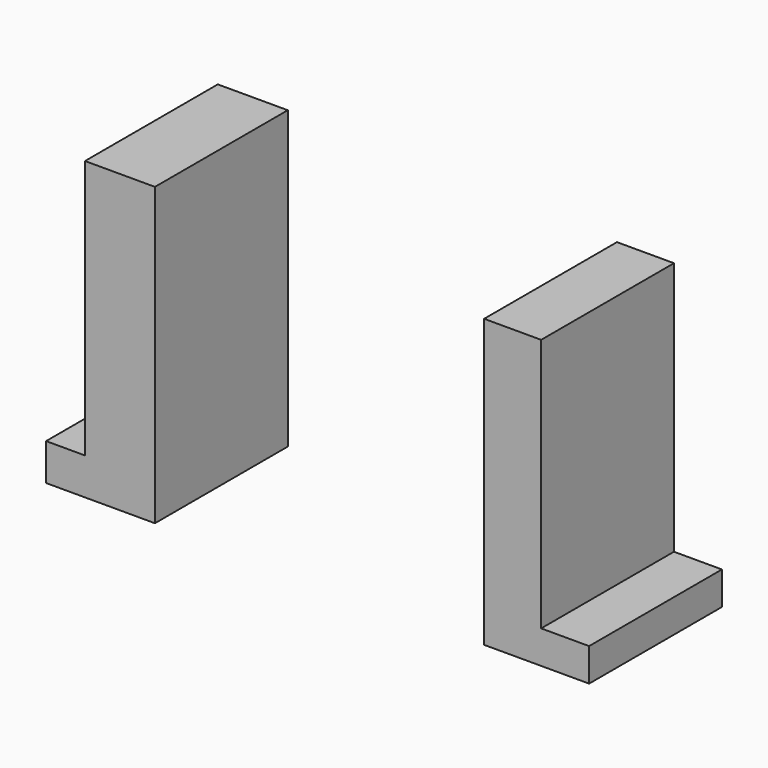
from build123d import *

# Parameters (mm, degrees)
F0_W     = 10.707658
F0_H     = 39.657993
F0_W_2   = 8.724758
F0_H_2   = 38.864834
F1_DEPTH = 25.4


with BuildPart() as f1:
    # F0 (on Front) → F1 (new body)
    with BuildSketch(Plane.XZ):
        with Locations((-45.606693, 25.48026)):
            Rectangle(F0_W, F0_H)
        Polygon((-40.252864, 5.651264), (-50.960522, 5.651264), (-56.909218, 5.651264), (-56.909218, 0), (-40.252864, 0), align=None)
        with Locations((14.475168, 24.488811)):
            Rectangle(F0_W_2, F0_H_2)
        Polygon((18.837547, 5.056394), (10.112789, 5.056394), (10.112789, 0), (26.174277, 0), (26.174277, 5.056394), align=None)
    extrude(amount=F1_DEPTH)


solid = f1.part
